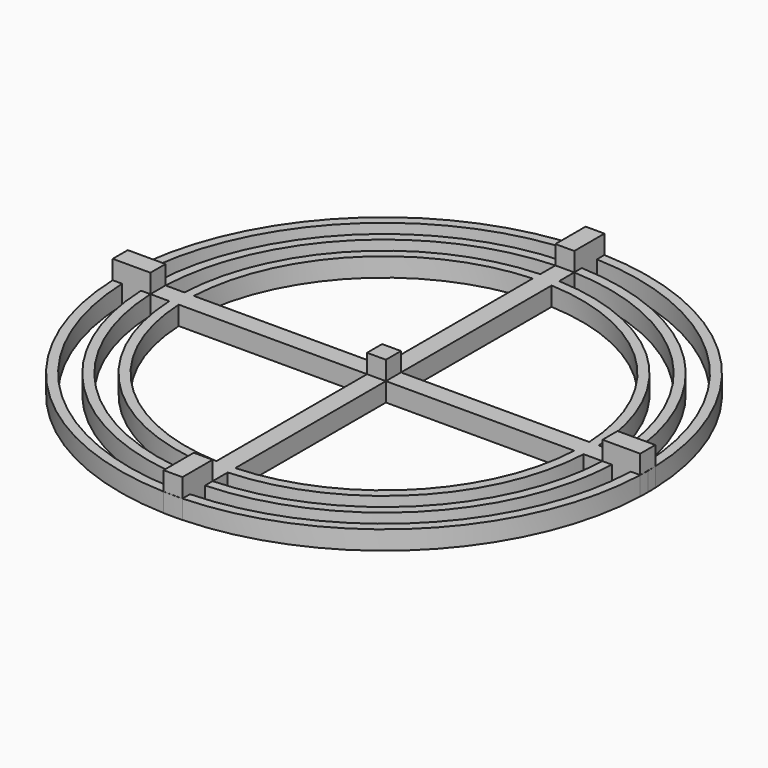
from build123d import *

# Parameters (mm, degrees)
F0_W     = 6.35
F0_H     = 6.35
F1_DEPTH = 6.35
F2_W     = 12.7094600481
F2_H     = 6.35
F2_W_2   = 6.35
F2_H_2   = 12.7094600481
F3_DEPTH = 6.35


with BuildPart() as f1:
    # F0 (on Top) → F1 (new body)
    with BuildSketch(Plane.XY):
        with BuildLine():
            ThreePointArc((88.8432854807, -3.175), (88.8858202393, -1.5877532504), (88.9, 0))
            ThreePointArc((88.9, 0), (88.8858202393, 1.5877532504), (88.8432854807, 3.175))
            Line((88.8432854807, 3.175), (88.8432854807, -3.175))
        make_face()
        with BuildLine():
            Line((85.6661835265, 3.175), (88.8432854807, 3.175))
            ThreePointArc((88.8432854807, 3.175), (62.8617928475, 62.8617928475), (3.175, 88.8432854807))
            Line((3.175, 88.8432854807), (3.175, 85.6661835265))
            ThreePointArc((3.175, 85.6661835265), (60.6167288172, 60.6167288172), (85.6661835265, 3.175))
        make_face()
        with BuildLine():
            Line((88.8432854807, -3.175), (88.8432854807, 3.175))
            Line((88.8432854807, 3.175), (85.6661835265, 3.175))
            ThreePointArc((85.6661835265, 3.175), (85.7102946203, 1.5877723686), (85.725, 0))
            ThreePointArc((85.725, 0), (85.7102946203, -1.5877723686), (85.6661835265, -3.175))
            Line((85.6661835265, -3.175), (88.8432854807, -3.175))
        make_face()
        with BuildLine():
            ThreePointArc((3.175, -88.8432854807), (62.8617928475, -62.8617928475), (88.8432854807, -3.175))
            Line((88.8432854807, -3.175), (85.6661835265, -3.175))
            ThreePointArc((85.6661835265, -3.175), (60.6167288172, -60.6167288172), (3.175, -85.6661835265))
            Line((3.175, -85.6661835265), (3.175, -88.8432854807))
        make_face()
        with BuildLine():
            Line((-3.175, 88.8432854807), (3.175, 88.8432854807))
            ThreePointArc((3.175, 88.8432854807), (0, 88.9), (-3.175, 88.8432854807))
        make_face()
        with BuildLine():
            Line((3.175, 85.6661835265), (3.175, 88.8432854807))
            Line((3.175, 88.8432854807), (-3.175, 88.8432854807))
            Line((-3.175, 88.8432854807), (-3.175, 85.6661835265))
            ThreePointArc((-3.175, 85.6661835265), (0, 85.725), (3.175, 85.6661835265))
        make_face()
        with BuildLine():
            ThreePointArc((-3.175, -88.8432854807), (0, -88.9), (3.175, -88.8432854807))
            Line((3.175, -88.8432854807), (-3.175, -88.8432854807))
        make_face()
        with BuildLine():
            Line((-3.175, -88.8432854807), (3.175, -88.8432854807))
            Line((3.175, -88.8432854807), (3.175, -85.6661835265))
            ThreePointArc((3.175, -85.6661835265), (0, -85.725), (-3.175, -85.6661835265))
            Line((-3.175, -85.6661835265), (-3.175, -88.8432854807))
        make_face()
        with BuildLine():
            Line((-3.175, 85.6661835265), (-3.175, 88.8432854807))
            ThreePointArc((-3.175, 88.8432854807), (-62.8617928475, 62.8617928475), (-88.8432854807, 3.175))
            Line((-88.8432854807, 3.175), (-85.6661835265, 3.175))
            ThreePointArc((-85.6661835265, 3.175), (-60.6167288172, 60.6167288172), (-3.175, 85.6661835265))
        make_face()
        with BuildLine():
            ThreePointArc((-88.8432854807, -3.175), (-62.8617928475, -62.8617928475), (-3.175, -88.8432854807))
            Line((-3.175, -88.8432854807), (-3.175, -85.6661835265))
            ThreePointArc((-3.175, -85.6661835265), (-60.6167288172, -60.6167288172), (-85.6661835265, -3.175))
            Line((-85.6661835265, -3.175), (-88.8432854807, -3.175))
        make_face()
        with BuildLine():
            Line((-88.8432854807, -3.175), (-88.8432854807, 3.175))
            ThreePointArc((-88.8432854807, 3.175), (-88.9, 0), (-88.8432854807, -3.175))
        make_face()
        with BuildLine():
            Line((-85.6661835265, 3.175), (-88.8432854807, 3.175))
            Line((-88.8432854807, 3.175), (-88.8432854807, -3.175))
            Line((-88.8432854807, -3.175), (-85.6661835265, -3.175))
            ThreePointArc((-85.6661835265, -3.175), (-85.725, 0), (-85.6661835265, 3.175))
        make_face()
        with BuildLine():
            Line((-3.175, 76.1338254326), (-3.175, 79.3114745797))
            ThreePointArc((-3.175, 79.3114745797), (-56.1266007567, 56.1266007567), (-79.3114745797, 3.175))
            Line((-79.3114745797, 3.175), (-76.1338254326, 3.175))
            ThreePointArc((-76.1338254326, 3.175), (-53.8815367264, 53.8815367264), (-3.175, 76.1338254326))
        make_face()
        with BuildLine():
            ThreePointArc((-79.3114745797, -3.175), (-56.1266007567, -56.1266007567), (-3.175, -79.3114745797))
            Line((-3.175, -79.3114745797), (-3.175, -76.1338254326))
            ThreePointArc((-3.175, -76.1338254326), (-53.8815367264, -53.8815367264), (-76.1338254326, -3.175))
            Line((-76.1338254326, -3.175), (-79.3114745797, -3.175))
        make_face()
        with BuildLine():
            Line((-76.1338254326, 3.175), (-79.3114745797, 3.175))
            ThreePointArc((-79.3114745797, 3.175), (-79.375, 0), (-79.3114745797, -3.175))
            Line((-79.3114745797, -3.175), (-76.1338254326, -3.175))
            ThreePointArc((-76.1338254326, -3.175), (-76.2, 0), (-76.1338254326, 3.175))
        make_face()
        with BuildLine():
            Line((-79.3114745797, 3.175), (-85.6661835265, 3.175))
            ThreePointArc((-85.6661835265, 3.175), (-85.725, 0), (-85.6661835265, -3.175))
            Line((-85.6661835265, -3.175), (-79.3114745797, -3.175))
            ThreePointArc((-79.3114745797, -3.175), (-79.375, 0), (-79.3114745797, 3.175))
        make_face()
        with BuildLine():
            Line((-66.5993618588, 3.175), (-69.7778035983, 3.175))
            ThreePointArc((-69.7778035983, 3.175), (-69.85, 0), (-69.7778035983, -3.175))
            Line((-69.7778035983, -3.175), (-66.5993618588, -3.175))
            ThreePointArc((-66.5993618588, -3.175), (-66.675, 0), (-66.5993618588, 3.175))
        make_face()
        with BuildLine():
            Line((-3.175, 66.5993618588), (-3.175, 69.7778035983))
            ThreePointArc((-3.175, 69.7778035983), (-49.3914086659, 49.3914086659), (-69.7778035983, 3.175))
            Line((-69.7778035983, 3.175), (-66.5993618588, 3.175))
            ThreePointArc((-66.5993618588, 3.175), (-47.1463446356, 47.1463446356), (-3.175, 66.5993618588))
        make_face()
        with BuildLine():
            ThreePointArc((-69.7778035983, -3.175), (-49.3914086659, -49.3914086659), (-3.175, -69.7778035983))
            Line((-3.175, -69.7778035983), (-3.175, -66.5993618588))
            ThreePointArc((-3.175, -66.5993618588), (-47.1463446356, -47.1463446356), (-66.5993618588, -3.175))
            Line((-66.5993618588, -3.175), (-69.7778035983, -3.175))
        make_face()
        with BuildLine():
            ThreePointArc((-3.175, -69.7778035983), (0, -69.85), (3.175, -69.7778035983))
            Line((3.175, -69.7778035983), (3.175, -66.5993618588))
            ThreePointArc((3.175, -66.5993618588), (0, -66.675), (-3.175, -66.5993618588))
            Line((-3.175, -66.5993618588), (-3.175, -69.7778035983))
        make_face()
        with BuildLine():
            ThreePointArc((-3.175, -79.3114745797), (0, -79.375), (3.175, -79.3114745797))
            Line((3.175, -79.3114745797), (3.175, -76.1338254326))
            ThreePointArc((3.175, -76.1338254326), (0, -76.2), (-3.175, -76.1338254326))
            Line((-3.175, -76.1338254326), (-3.175, -79.3114745797))
        make_face()
        with BuildLine():
            ThreePointArc((3.175, -79.3114745797), (56.1266007567, -56.1266007567), (79.3114745797, -3.175))
            Line((79.3114745797, -3.175), (76.1338254326, -3.175))
            ThreePointArc((76.1338254326, -3.175), (53.8815367264, -53.8815367264), (3.175, -76.1338254326))
            Line((3.175, -76.1338254326), (3.175, -79.3114745797))
        make_face()
        with BuildLine():
            ThreePointArc((3.175, -69.7778035983), (49.3914086659, -49.3914086659), (69.7778035983, -3.175))
            Line((69.7778035983, -3.175), (66.5993618588, -3.175))
            ThreePointArc((66.5993618588, -3.175), (47.1463446356, -47.1463446356), (3.175, -66.5993618588))
            Line((3.175, -66.5993618588), (3.175, -69.7778035983))
        make_face()
        with BuildLine():
            ThreePointArc((69.85, 0), (69.831948567, 1.5879103659), (69.7778035983, 3.175))
            Line((69.7778035983, 3.175), (66.5993618588, 3.175))
            ThreePointArc((66.5993618588, 3.175), (66.6560877825, 1.5879504187), (66.675, 0))
            ThreePointArc((66.675, 0), (66.6560877825, -1.5879504187), (66.5993618588, -3.175))
            Line((66.5993618588, -3.175), (69.7778035983, -3.175))
            ThreePointArc((69.7778035983, -3.175), (69.831948567, -1.5879103659), (69.85, 0))
        make_face()
        with BuildLine():
            Line((76.1338254326, 3.175), (79.3114745797, 3.175))
            ThreePointArc((79.3114745797, 3.175), (56.1266007567, 56.1266007567), (3.175, 79.3114745797))
            Line((3.175, 79.3114745797), (3.175, 76.1338254326))
            ThreePointArc((3.175, 76.1338254326), (53.8815367264, 53.8815367264), (76.1338254326, 3.175))
        make_face()
        with BuildLine():
            Line((66.5993618588, 3.175), (69.7778035983, 3.175))
            ThreePointArc((69.7778035983, 3.175), (49.3914086659, 49.3914086659), (3.175, 69.7778035983))
            Line((3.175, 69.7778035983), (3.175, 66.5993618588))
            ThreePointArc((3.175, 66.5993618588), (47.1463446356, 47.1463446356), (66.5993618588, 3.175))
        make_face()
        with BuildLine():
            Line((3.175, 76.1338254326), (3.175, 79.3114745797))
            ThreePointArc((3.175, 79.3114745797), (0, 79.375), (-3.175, 79.3114745797))
            Line((-3.175, 79.3114745797), (-3.175, 76.1338254326))
            ThreePointArc((-3.175, 76.1338254326), (0, 76.2), (3.175, 76.1338254326))
        make_face()
        with BuildLine():
            Line((3.175, 66.5993618588), (3.175, 69.7778035983))
            ThreePointArc((3.175, 69.7778035983), (0, 69.85), (-3.175, 69.7778035983))
            Line((-3.175, 69.7778035983), (-3.175, 66.5993618588))
            ThreePointArc((-3.175, 66.5993618588), (0, 66.675), (3.175, 66.5993618588))
        make_face()
        with BuildLine():
            Line((-3.175, -3.175), (-3.175, 3.175))
            Line((-3.175, 3.175), (-66.5993618588, 3.175))
            ThreePointArc((-66.5993618588, 3.175), (-66.675, 0), (-66.5993618588, -3.175))
            Line((-66.5993618588, -3.175), (-3.175, -3.175))
        make_face()
        with BuildLine():
            Line((3.175, 3.175), (3.175, 66.5993618588))
            ThreePointArc((3.175, 66.5993618588), (0, 66.675), (-3.175, 66.5993618588))
            Line((-3.175, 66.5993618588), (-3.175, 3.175))
            Line((-3.175, 3.175), (3.175, 3.175))
        make_face()
        with BuildLine():
            ThreePointArc((66.675, 0), (66.6560877825, 1.5879504187), (66.5993618588, 3.175))
            Line((66.5993618588, 3.175), (3.175, 3.175))
            Line((3.175, 3.175), (3.175, -3.175))
            Line((3.175, -3.175), (66.5993618588, -3.175))
            ThreePointArc((66.5993618588, -3.175), (66.6560877825, -1.5879504187), (66.675, 0))
        make_face()
        with BuildLine():
            ThreePointArc((-3.175, -66.5993618588), (0, -66.675), (3.175, -66.5993618588))
            Line((3.175, -66.5993618588), (3.175, -3.175))
            Line((3.175, -3.175), (-3.175, -3.175))
            Line((-3.175, -3.175), (-3.175, -66.5993618588))
        make_face()
        Rectangle(F0_W, F0_H)
        with BuildLine():
            ThreePointArc((-3.175, -76.1338254326), (0, -76.2), (3.175, -76.1338254326))
            Line((3.175, -76.1338254326), (3.175, -69.7778035983))
            ThreePointArc((3.175, -69.7778035983), (0, -69.85), (-3.175, -69.7778035983))
            Line((-3.175, -69.7778035983), (-3.175, -76.1338254326))
        make_face()
        with BuildLine():
            ThreePointArc((-3.175, -85.6661835265), (0, -85.725), (3.175, -85.6661835265))
            Line((3.175, -85.6661835265), (3.175, -79.3114745797))
            ThreePointArc((3.175, -79.3114745797), (0, -79.375), (-3.175, -79.3114745797))
            Line((-3.175, -79.3114745797), (-3.175, -85.6661835265))
        make_face()
        with BuildLine():
            Line((3.175, 69.7778035983), (3.175, 76.1338254326))
            ThreePointArc((3.175, 76.1338254326), (0, 76.2), (-3.175, 76.1338254326))
            Line((-3.175, 76.1338254326), (-3.175, 69.7778035983))
            ThreePointArc((-3.175, 69.7778035983), (0, 69.85), (3.175, 69.7778035983))
        make_face()
        with BuildLine():
            Line((3.175, 79.3114745797), (3.175, 85.6661835265))
            ThreePointArc((3.175, 85.6661835265), (0, 85.725), (-3.175, 85.6661835265))
            Line((-3.175, 85.6661835265), (-3.175, 79.3114745797))
            ThreePointArc((-3.175, 79.3114745797), (0, 79.375), (3.175, 79.3114745797))
        make_face()
        with BuildLine():
            Line((-69.7778035983, 3.175), (-76.1338254326, 3.175))
            ThreePointArc((-76.1338254326, 3.175), (-76.2, 0), (-76.1338254326, -3.175))
            Line((-76.1338254326, -3.175), (-69.7778035983, -3.175))
            ThreePointArc((-69.7778035983, -3.175), (-69.85, 0), (-69.7778035983, 3.175))
        make_face()
        with BuildLine():
            ThreePointArc((76.2, 0), (76.1834545619, 1.5878447715), (76.1338254326, 3.175))
            Line((76.1338254326, 3.175), (69.7778035983, 3.175))
            ThreePointArc((69.7778035983, 3.175), (69.831948567, 1.5879103659), (69.85, 0))
            ThreePointArc((69.85, 0), (69.831948567, -1.5879103659), (69.7778035983, -3.175))
            Line((69.7778035983, -3.175), (76.1338254326, -3.175))
            ThreePointArc((76.1338254326, -3.175), (76.1834545619, -1.5878447715), (76.2, 0))
        make_face()
        with BuildLine():
            ThreePointArc((79.375, 0), (79.3591170558, 1.5878177225), (79.3114745797, 3.175))
            Line((79.3114745797, 3.175), (76.1338254326, 3.175))
            ThreePointArc((76.1338254326, 3.175), (76.1834545619, 1.5878447715), (76.2, 0))
            ThreePointArc((76.2, 0), (76.1834545619, -1.5878447715), (76.1338254326, -3.175))
            Line((76.1338254326, -3.175), (79.3114745797, -3.175))
            ThreePointArc((79.3114745797, -3.175), (79.3591170558, -1.5878177225), (79.375, 0))
        make_face()
        with BuildLine():
            ThreePointArc((85.725, 0), (85.7102946203, 1.5877723686), (85.6661835265, 3.175))
            Line((85.6661835265, 3.175), (79.3114745797, 3.175))
            ThreePointArc((79.3114745797, 3.175), (79.3591170558, 1.5878177225), (79.375, 0))
            ThreePointArc((79.375, 0), (79.3591170558, -1.5878177225), (79.3114745797, -3.175))
            Line((79.3114745797, -3.175), (85.6661835265, -3.175))
            ThreePointArc((85.6661835265, -3.175), (85.7102946203, -1.5877723686), (85.725, 0))
        make_face()
    extrude(amount=F1_DEPTH)

    # F2 (on face) → F3 (join)
    with BuildSketch(Plane.XY.offset(6.35)):
        with Locations((-82.4885554566, 0)):
            Rectangle(F2_W, F2_H)
        with Locations((82.4885554566, 0)):
            Rectangle(F2_W, F2_H)
        with Locations((0, 82.4885554566)):
            Rectangle(F2_W_2, F2_H_2)
        with Locations((0, -82.4885554566)):
            Rectangle(F2_W_2, F2_H_2)
        Rectangle(F2_W_2, F2_H)
    extrude(amount=F3_DEPTH)


solid = f1.part
